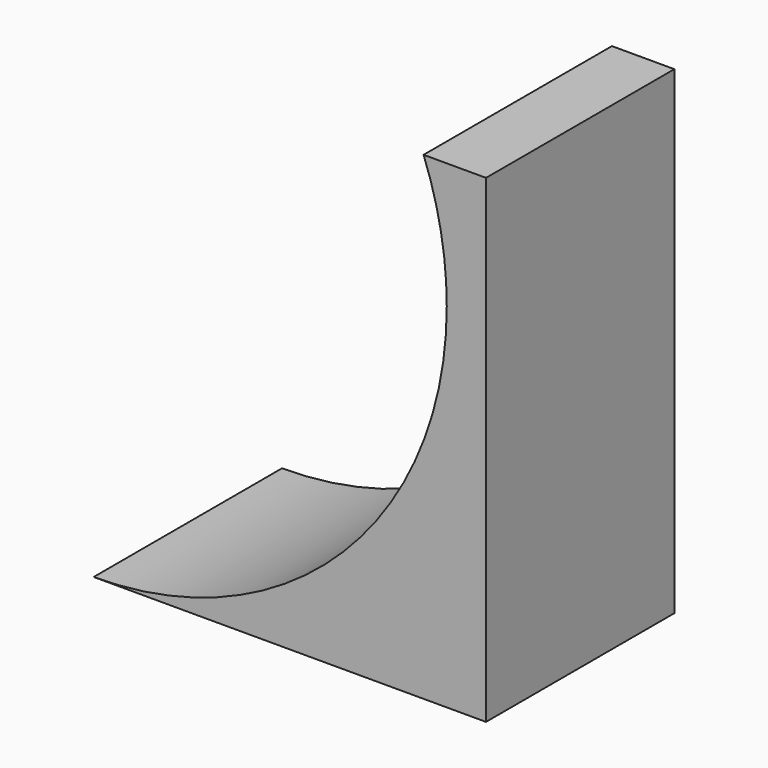
from build123d import *

# Parameters (mm, degrees)
F1_DEPTH = 30


with BuildPart() as f1:
    # F0 (on Front) → F1 (new body)
    with BuildSketch(Plane.XZ):
        with BuildLine():
            ThreePointArc((20, 22.5), (6.819805, -9.319805), (-25, -22.5))
            Line((-25, -22.5), (25, -22.5))
            Line((25, -22.5), (25, 22.5))
            Line((25, 22.5), (20, 22.5))
        make_face()
        with BuildLine():
            Line((25, 38.539196), (17.04455, 38.539196))
            ThreePointArc((17.04455, 38.539196), (19.25497, 30.654607), (20, 22.5))
            Line((20, 22.5), (25, 22.5))
            Line((25, 22.5), (25, 38.539196))
        make_face()
    extrude(amount=F1_DEPTH)


solid = f1.part
